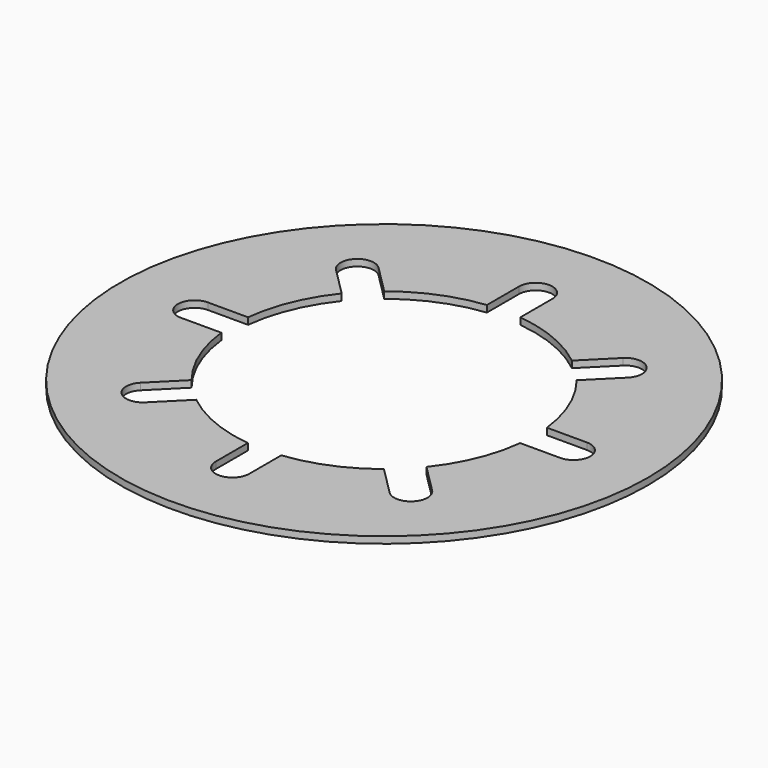
from build123d import *

# Parameters (mm, degrees)
F0_R     = 7.9
F1_DEPTH = 0.2


with BuildPart() as f1:
    # F0 (on Top) → F1 (new body)
    with BuildSketch(Plane.XY):
        Circle(F0_R)
        with BuildLine():
            ThreePointArc((-2.808724, 3.515831), (-1.722075, 4.157458), (-0.5, 4.472136))
            Line((-0.5, 4.472136), (-0.5, 5.672136))
            ThreePointArc((-0.5, 5.672136), (0, 6.172136), (0.5, 5.672136))
            Line((0.5, 5.672136), (0.5, 4.472136))
            ThreePointArc((0.5, 4.472136), (1.722075, 4.157458), (2.808724, 3.515831))
            Line((2.808724, 3.515831), (3.657252, 4.364359))
            ThreePointArc((3.657252, 4.364359), (4.364359, 4.364359), (4.364359, 3.657252))
            Line((4.364359, 3.657252), (3.515831, 2.808724))
            ThreePointArc((3.515831, 2.808724), (4.157458, 1.722075), (4.472136, 0.5))
            Line((4.472136, 0.5), (5.672136, 0.5))
            ThreePointArc((5.672136, 0.5), (6.172136, 0), (5.672136, -0.5))
            Line((5.672136, -0.5), (4.472136, -0.5))
            ThreePointArc((4.472136, -0.5), (4.157458, -1.722075), (3.515831, -2.808724))
            Line((3.515831, -2.808724), (4.364359, -3.657252))
            ThreePointArc((4.364359, -3.657252), (4.364359, -4.364359), (3.657252, -4.364359))
            Line((3.657252, -4.364359), (2.808724, -3.515831))
            ThreePointArc((2.808724, -3.515831), (1.722075, -4.157458), (0.5, -4.472136))
            Line((0.5, -4.472136), (0.5, -5.672136))
            ThreePointArc((0.5, -5.672136), (0, -6.172136), (-0.5, -5.672136))
            Line((-0.5, -5.672136), (-0.5, -4.472136))
            ThreePointArc((-0.5, -4.472136), (-1.722075, -4.157458), (-2.808724, -3.515831))
            Line((-2.808724, -3.515831), (-3.657252, -4.364359))
            ThreePointArc((-3.657252, -4.364359), (-4.364359, -4.364359), (-4.364359, -3.657252))
            Line((-4.364359, -3.657252), (-3.515831, -2.808724))
            ThreePointArc((-3.515831, -2.808724), (-4.157458, -1.722075), (-4.472136, -0.5))
            Line((-4.472136, -0.5), (-5.672136, -0.5))
            ThreePointArc((-5.672136, -0.5), (-6.172136, 0), (-5.672136, 0.5))
            Line((-5.672136, 0.5), (-4.472136, 0.5))
            ThreePointArc((-4.472136, 0.5), (-4.157458, 1.722075), (-3.515831, 2.808724))
            Line((-3.515831, 2.808724), (-4.364359, 3.657252))
            ThreePointArc((-4.364359, 3.657252), (-4.364359, 4.364359), (-3.657252, 4.364359))
            Line((-3.657252, 4.364359), (-2.808724, 3.515831))
        make_face(mode=Mode.SUBTRACT)
    extrude(amount=F1_DEPTH)


solid = f1.part
